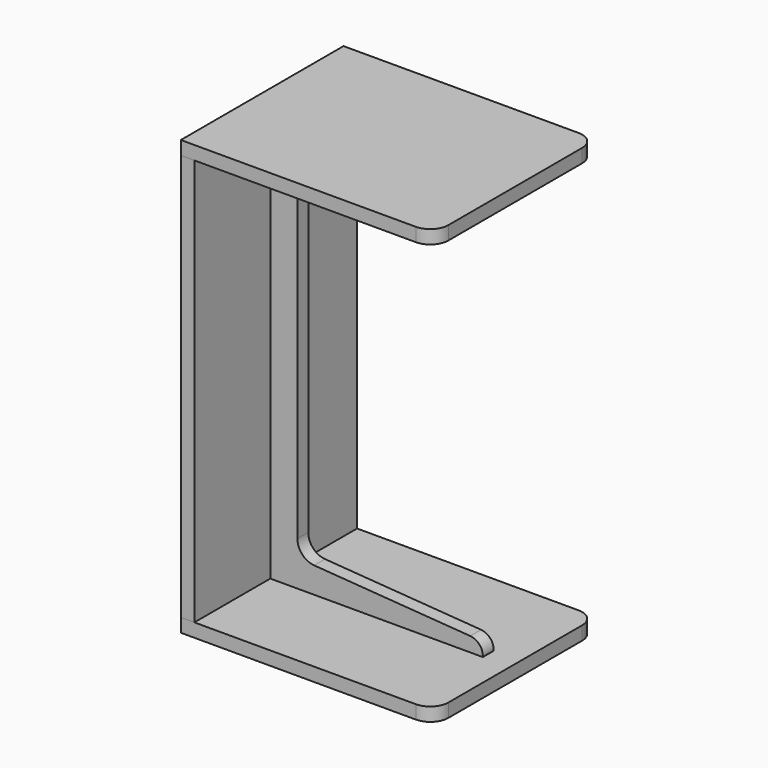
from build123d import *

# Parameters (mm, degrees)
F1_DEPTH      = 142.875
F0_W          = 19.05
F0_H          = 571.5
F2_DEPTH      = 142.875
F2_DEPTH_BACK = 142.875
F3_DEPTH      = 142.875
F3_DEPTH_BACK = 142.875
F4_DEPTH      = 9.525
F5_R          = 25.4
F6_R          = 19.05
F7_R          = 25.4
F7_2_R        = 25.4


with BuildPart() as f1:
    # F0 (on Front) → F1 (new body, symmetric)
    with BuildSketch(Plane.XZ):
        Polygon((0, 609.6), (0, 590.55), (19.05, 590.55), (317.6700174809, 590.55), (355.6, 590.55), (355.6, 609.6), align=None)
    extrude(amount=F1_DEPTH, both=True)

    # F7
    f7_edges = [f1.edges().sort_by_distance(p)[0] for p in [
        (355.6, -142.875, 600.075),
        (355.6, 142.875, 600.075),
    ]]
    fillet(f7_edges, radius=F7_R)


with BuildPart() as f2:
    # F0 (on Front) → F2 (new body, two sides)
    with BuildSketch(Plane.XZ) as f2_sk:
        with Locations((9.525, 304.8)):
            Rectangle(F0_W, F0_H)
    extrude(amount=-F2_DEPTH)
    extrude(f2_sk.sketch, amount=F2_DEPTH_BACK)


with BuildPart() as f3:
    # F0 (on Front) → F3 (new body, two sides)
    with BuildSketch(Plane.XZ) as f3_sk:
        Polygon((0, 0), (355.6, 0), (355.6, 19.05), (317.6700174809, 19.05), (19.05, 19.05), (0, 19.05), align=None)
    extrude(amount=F3_DEPTH)
    extrude(f3_sk.sketch, amount=-F3_DEPTH_BACK)

    # F7#2
    f7_2_edges = [f3.edges().sort_by_distance(p)[0] for p in [
        (355.6, 142.875, 9.525),
        (355.6, -142.875, 9.525),
    ]]
    fillet(f7_2_edges, radius=F7_2_R)


with BuildPart() as f4:
    # F0 (on Front) → F4 (new body, symmetric)
    with BuildSketch(Plane.XZ):
        Polygon((19.05, 19.05), (317.6700174809, 19.05), (317.6700174809, 38.1), (57.15, 57.15), (57.15, 552.45), (317.6700174809, 571.5), (317.6700174809, 590.55), (19.05, 590.55), align=None)
    extrude(amount=F4_DEPTH, both=True)

    # F5
    f5_edges = [f4.edges().sort_by_distance(p)[0] for p in [
        (57.15, 0, 552.45),
        (57.15, 0, 57.15),
    ]]
    fillet(f5_edges, radius=F5_R)

    # F6
    f6_edges = [f4.edges().sort_by_distance(p)[0] for p in [
        (317.670017, 0, 571.5),
        (317.670017, 0, 38.1),
    ]]
    fillet(f6_edges, radius=F6_R)


solid = Compound([f1.part, f2.part, f3.part, f4.part])
